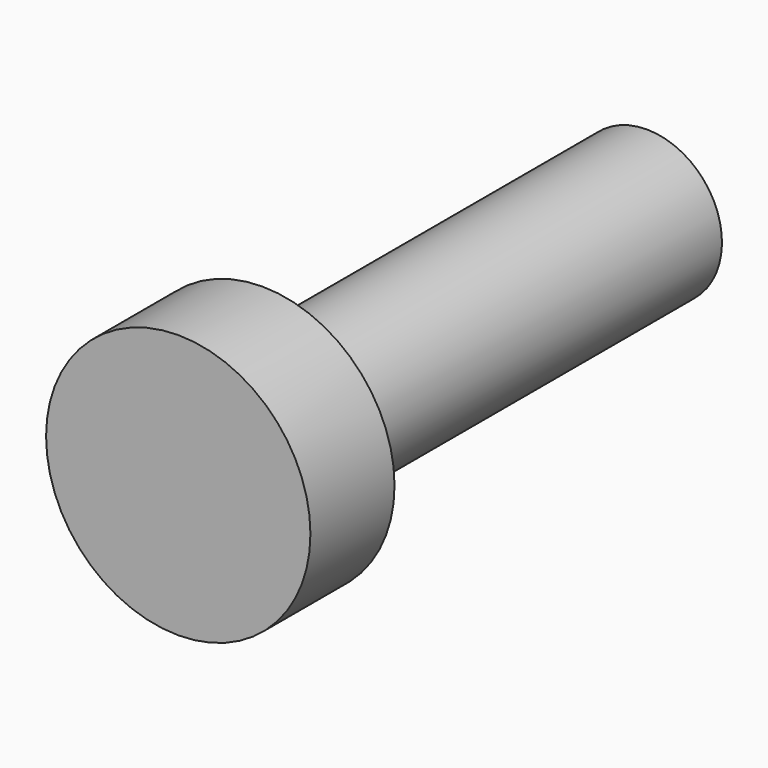
from build123d import *


with BuildPart() as part:
    # Sketch → Revolution (revolve)
    with BuildSketch(Plane.YZ):
        Polygon((-3.5, 0), (-3.5, 4.4), (0, 4.4), (0, 2.5), (16, 2.5), (16, 0), align=None)
    revolve(axis=Axis((0, 0, 0), (0, 1, 0)))


solid = part.part
